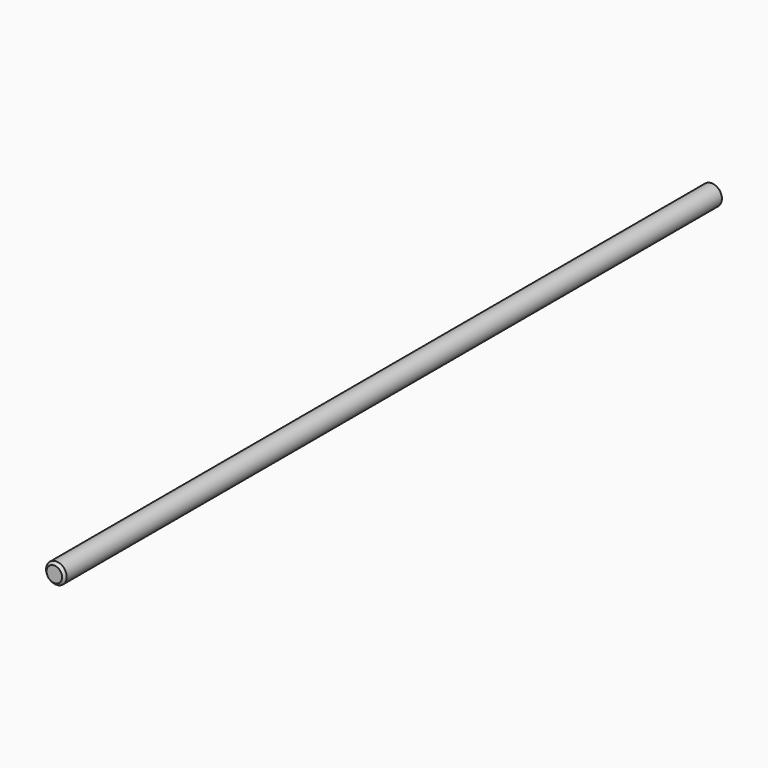
from build123d import *

# Parameters (mm, degrees)
SKETCH_R  = 2.5
PAD_DEPTH = 100


with BuildPart() as part:
    # Sketch → Pad (new body, symmetric)
    with BuildSketch(Plane.XZ):
        Circle(SKETCH_R)
    extrude(amount=PAD_DEPTH, both=True)

    # Sketch001 → Groove (revolve, cut)
    with BuildSketch(Plane.YZ):
        Polygon((-100, 4.5), (100, 4.5), (100, 1.875), (99.375, 2.5), (-99.375, 2.5), (-100, 1.875), align=None)
    revolve(axis=Axis((0, 0, 0), (0, 1, 0)), mode=Mode.SUBTRACT)


solid = part.part
